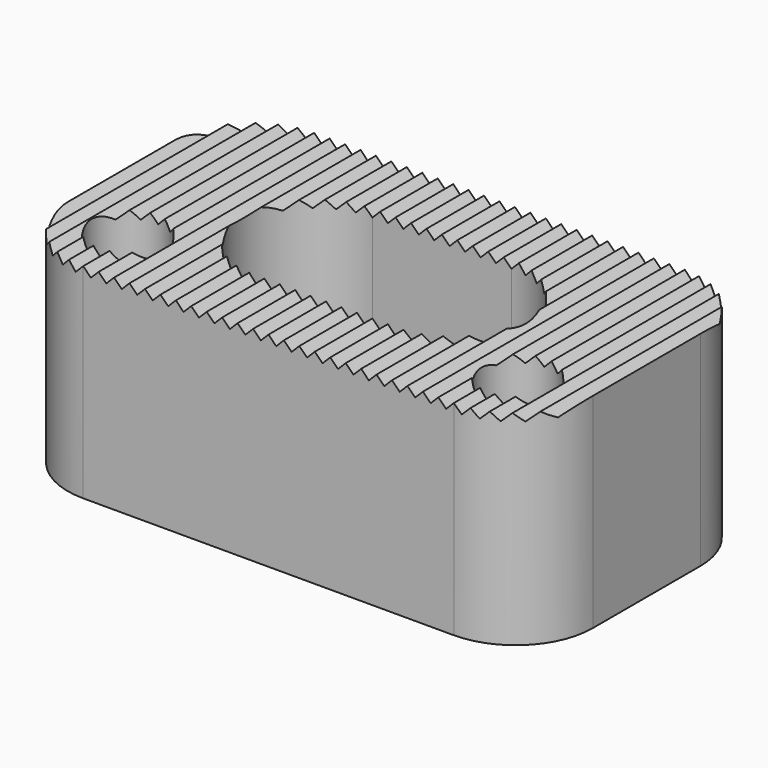
from build123d import *

# Parameters (mm, degrees)
F0_W     = 34.544
F0_H     = 19
F1_DEPTH = 13.45
F3_DEPTH = 9.144
F4_R     = 2.794
F5_DEPTH = 4.307
F6_R     = 2.3622
F7_DEPTH = 10.16
F9_DEPTH = 19.001
F10_R    = 5.08


with BuildPart() as f1:
    # F0 (on Top) → F1 (new body)
    with BuildSketch(Plane.XY):
        Rectangle(F0_W, F0_H)
    extrude(amount=F1_DEPTH)

    # F2 (on face) → F3 (cut)
    with BuildSketch(Plane.XY.offset(13.45)):
        with BuildLine():
            Line((-4.572, -4.7625), (-4.572, 4.7625))
            ThreePointArc((-4.572, 4.7625), (-9.3345, 0), (-4.572, -4.7625))
        make_face()
        with BuildLine():
            Line((4.572, 4.7625), (-4.572, 4.7625))
            ThreePointArc((-4.572, 4.7625), (-1.7145, 3.81), (0, 1.3335))
            ThreePointArc((0, 1.3335), (1.7145, 3.81), (4.572, 4.7625))
        make_face()
        with BuildLine():
            ThreePointArc((0, 1.3335), (-1.7145, 3.81), (-4.572, 4.7625))
            Line((-4.572, 4.7625), (-4.572, -4.7625))
            ThreePointArc((-4.572, -4.7625), (-1.7145, -3.81), (0, -1.3335))
            ThreePointArc((0, -1.3335), (-0.1905, 0), (0, 1.3335))
        make_face()
        with BuildLine():
            ThreePointArc((0, -1.3335), (-1.7145, -3.81), (-4.572, -4.7625))
            Line((-4.572, -4.7625), (4.572, -4.7625))
            ThreePointArc((4.572, -4.7625), (1.7145, -3.81), (0, -1.3335))
        make_face()
        with BuildLine():
            ThreePointArc((4.572, 4.7625), (1.7145, 3.81), (0, 1.3335))
            ThreePointArc((0, 1.3335), (0.1426344636, 0.6735192091), (0.1905, 0))
            ThreePointArc((0.1905, 0), (0.1426344636, -0.6735192091), (0, -1.3335))
            ThreePointArc((0, -1.3335), (1.7145, -3.81), (4.572, -4.7625))
            Line((4.572, -4.7625), (4.572, 4.7625))
        make_face()
        with BuildLine():
            ThreePointArc((9.3345, 0), (7.9395960454, 3.3675960454), (4.572, 4.7625))
            Line((4.572, 4.7625), (4.572, -4.7625))
            ThreePointArc((4.572, -4.7625), (7.9395960454, -3.3675960454), (9.3345, 0))
        make_face()
        with BuildLine():
            ThreePointArc((0.1905, 0), (0.1426344636, 0.6735192091), (0, 1.3335))
            ThreePointArc((0, 1.3335), (-0.1905, 0), (0, -1.3335))
            ThreePointArc((0, -1.3335), (0.1426344636, -0.6735192091), (0.1905, 0))
        make_face()
    extrude(amount=-F3_DEPTH, mode=Mode.SUBTRACT)

    # F4 (on face) → F5 (cut, through all)
    with BuildSketch(Plane.XY.offset(4.306)):
        with Locations((-4.572, 0)):
            Circle(F4_R)
        with Locations((4.572, 0)):
            Circle(F4_R)
    extrude(amount=-F5_DEPTH, mode=Mode.SUBTRACT)

    # F6 (on face) → F7 (cut)
    with BuildSketch(Plane.XY.offset(13.45)):
        with Locations((-12.827, -5.055)):
            Circle(F6_R)
        with Locations((12.827, -5.055)):
            Circle(F6_R)
    extrude(amount=-F7_DEPTH, mode=Mode.SUBTRACT)

    # F8 (on face) → F9 (cut, through all)
    with BuildSketch(Plane.XZ.offset(9.5)):
        Polygon((-17.78, 12.942), (-17.272, 13.45), (-18.288, 13.45), align=None)
        Polygon((-16.764, 12.942), (-16.256, 13.45), (-17.272, 13.45), align=None)
        Polygon((-15.748, 12.942), (-15.24, 13.45), (-16.256, 13.45), align=None)
        Polygon((-14.732, 12.942), (-14.224, 13.45), (-15.24, 13.45), align=None)
        Polygon((-13.716, 12.942), (-13.208, 13.45), (-14.224, 13.45), align=None)
        Polygon((-12.7, 12.942), (-12.192, 13.45), (-13.208, 13.45), align=None)
        Polygon((-11.684, 12.942), (-11.176, 13.45), (-12.192, 13.45), align=None)
        Polygon((-10.668, 12.942), (-10.16, 13.45), (-11.176, 13.45), align=None)
        Polygon((-9.652, 12.942), (-9.144, 13.45), (-10.16, 13.45), align=None)
        Polygon((-8.636, 12.942), (-8.128, 13.45), (-9.144, 13.45), align=None)
        Polygon((-7.62, 12.942), (-7.112, 13.45), (-8.128, 13.45), align=None)
        Polygon((-6.604, 12.942), (-6.096, 13.45), (-7.112, 13.45), align=None)
        Polygon((-5.588, 12.942), (-5.08, 13.45), (-6.096, 13.45), align=None)
        Polygon((-4.572, 12.942), (-4.064, 13.45), (-5.08, 13.45), align=None)
        Polygon((-3.556, 12.942), (-3.048, 13.45), (-4.064, 13.45), align=None)
        Polygon((-2.54, 12.942), (-2.032, 13.45), (-3.048, 13.45), align=None)
        Polygon((-1.524, 12.942), (-1.016, 13.45), (-2.032, 13.45), align=None)
        Polygon((-0.508, 12.942), (0, 13.45), (-1.016, 13.45), align=None)
        Polygon((0.508, 12.942), (1.016, 13.45), (0, 13.45), align=None)
        Polygon((1.524, 12.942), (2.032, 13.45), (1.016, 13.45), align=None)
        Polygon((2.54, 12.942), (3.048, 13.45), (2.032, 13.45), align=None)
        Polygon((3.556, 12.942), (4.064, 13.45), (3.048, 13.45), align=None)
        Polygon((4.572, 12.942), (5.08, 13.45), (4.064, 13.45), align=None)
        Polygon((5.588, 12.942), (6.096, 13.45), (5.08, 13.45), align=None)
        Polygon((6.604, 12.942), (7.112, 13.45), (6.096, 13.45), align=None)
        Polygon((7.62, 12.942), (8.128, 13.45), (7.112, 13.45), align=None)
        Polygon((8.636, 12.942), (9.144, 13.45), (8.128, 13.45), align=None)
        Polygon((9.652, 12.942), (10.16, 13.45), (9.144, 13.45), align=None)
        Polygon((10.668, 12.942), (11.176, 13.45), (10.16, 13.45), align=None)
        Polygon((11.684, 12.942), (12.192, 13.45), (11.176, 13.45), align=None)
        Polygon((12.7, 12.942), (13.208, 13.45), (12.192, 13.45), align=None)
        Polygon((13.716, 12.942), (14.224, 13.45), (13.208, 13.45), align=None)
        Polygon((14.732, 12.942), (15.24, 13.45), (14.224, 13.45), align=None)
        Polygon((15.748, 12.942), (16.256, 13.45), (15.24, 13.45), align=None)
        Polygon((16.764, 12.942), (17.272, 13.45), (16.256, 13.45), align=None)
    extrude(amount=-F9_DEPTH, mode=Mode.SUBTRACT)

    # F10
    f10_edges = [f1.edges().sort_by_distance(p)[0] for p in [
        (-17.272, -9.5, 6.725),
        (17.272, -9.5, 6.725),
        (17.272, 9.5, 6.725),
        (-17.272, 9.5, 6.725),
    ]]
    fillet(f10_edges, radius=F10_R)


solid = f1.part
